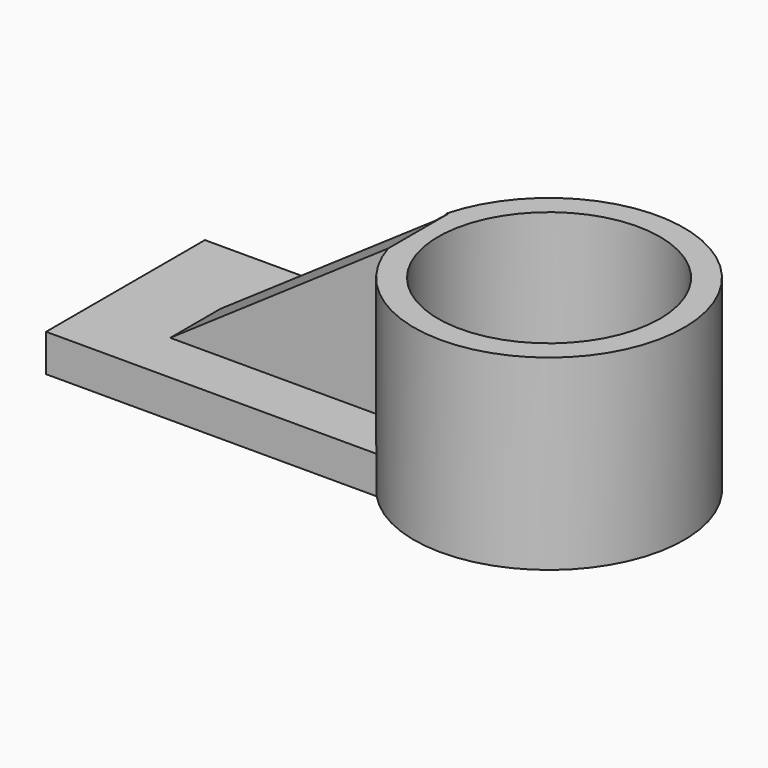
from build123d import *

# Parameters (mm, degrees)
F0_W      = 117.213294
F0_H      = 67.42356
F1_DEPTH  = 25.4
F1_FACE_W = 117.213294
F1_FACE_H = 67.42356
F2_DEPTH  = 12.7
F3_R      = 45.862113
F3_R_2    = 37.681332
F4_DEPTH  = 63.5
F5_W      = 74.026364
F5_H      = 21.373598
F6_DEPTH  = 50.8
F8_DEPTH  = 25.4


with BuildPart() as f1:
    # F0 (on Top) → F1 (new body)
    with BuildSketch(Plane.XY):
        with Locations((9.024359, -5.497601)):
            Rectangle(F0_W, F0_H)
    extrude(amount=F1_DEPTH)

    # F1_face (on face) → F2 (cut)
    with BuildSketch(Plane(origin=(9.024359, -5.497601, 25.4), x_dir=(1, 0, 0), z_dir=(0, 0, 1))):
        Rectangle(F1_FACE_W, F1_FACE_H)
    extrude(amount=-F2_DEPTH, mode=Mode.SUBTRACT)

    # F3 (on Top) → F4 (join)
    with BuildSketch(Plane.XY):
        with Locations((96.162871, -7.875698)):
            Circle(F3_R)
        with Locations((96.162871, -7.875698)):
            Circle(F3_R_2, mode=Mode.SUBTRACT)
        with Locations((96.162871, -7.875698)):
            Circle(F3_R)
        with Locations((96.162871, -7.875698)):
            Circle(F3_R_2, mode=Mode.SUBTRACT)
    extrude(amount=F4_DEPTH)

    # F5 (on face) → F6 (join)
    with BuildSketch(Plane.XY.offset(12.7)):
        with Locations((15.318876, -10.686799)):
            Rectangle(F5_W, F5_H)
        with Locations((15.318876, -10.686799)):
            Rectangle(F5_W, F5_H)
    extrude(amount=F6_DEPTH)

    # F7 (on face) → F8 (cut)
    with BuildSketch(Plane.XZ.offset(21.373598)):
        Polygon((-21.694306, 63.5), (-21.694306, 12.7), (52.332058, 63.5), align=None)
    extrude(amount=-F8_DEPTH, mode=Mode.SUBTRACT)


solid = f1.part
